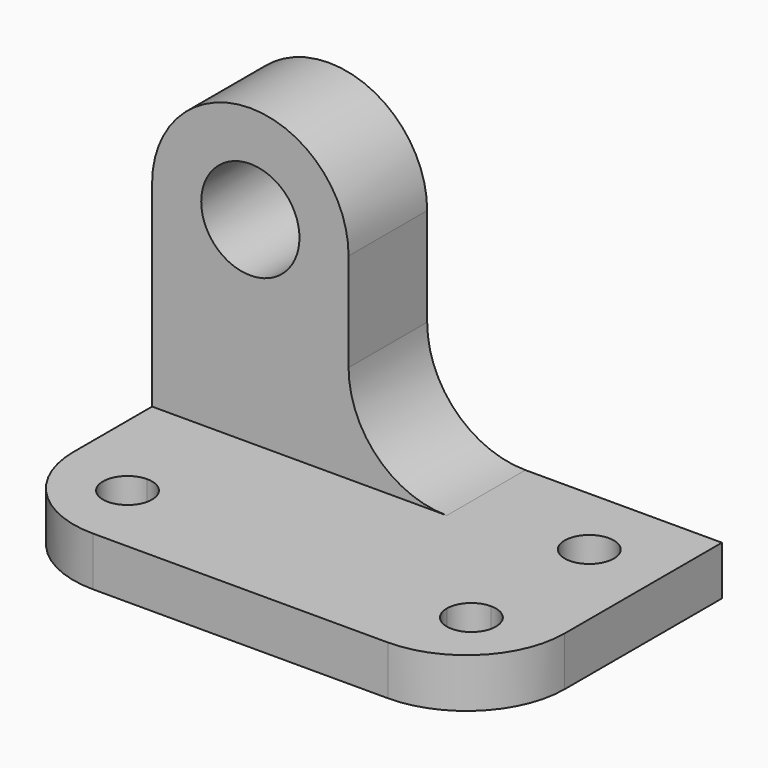
from build123d import *

# Parameters (mm, degrees)
F0_R     = 3.175
F1_DEPTH = 6.35
F0_W     = 25.4
F0_H     = 12.7
F2_DEPTH = 31.75
F4_DEPTH = 12.7
F5_DEPTH = 12.7
F6_DEPTH = 12.7
F7_DEPTH = 6.35


with BuildPart() as f1:
    # F0 (on Top) → F1 (new body)
    with BuildSketch(Plane.XY):
        Polygon((0, 25.4), (0, 12.7), (9.525, 12.7), (12.7, 12.7), (12.7, 9.525), (12.7, 0), (50.8, 0), (50.8, 9.525), (50.8, 12.7), (53.975, 12.7), (63.5, 12.7), (63.5, 38.1), (25.4, 38.1), (25.4, 25.4), align=None)
        with Locations((53.975, 28.575)):
            Circle(F0_R, mode=Mode.SUBTRACT)
        with BuildLine():
            Line((50.8, 9.525), (50.8, 0))
            ThreePointArc((50.8, 0), (59.7802561211, 3.7197438789), (63.5, 12.7))
            Line((63.5, 12.7), (53.975, 12.7))
            ThreePointArc((53.975, 12.7), (56.2200640303, 11.7700640303), (57.15, 9.525))
            ThreePointArc((57.15, 9.525), (53.975, 6.35), (50.8, 9.525))
        make_face()
        with BuildLine():
            Line((9.525, 12.7), (0, 12.7))
            ThreePointArc((0, 12.7), (3.7197438789, 3.7197438789), (12.7, 0))
            Line((12.7, 0), (12.7, 9.525))
            ThreePointArc((12.7, 9.525), (7.2799359697, 7.2799359697), (9.525, 12.7))
        make_face()
    extrude(amount=F1_DEPTH)

    # F0 (on Top) → F2 (join)
    with BuildSketch(Plane.XY):
        with Locations((12.7, 31.75)):
            Rectangle(F0_W, F0_H)
    extrude(amount=F2_DEPTH)

    # F3 (on face) → F4 (join)
    with BuildSketch(Plane.XZ.offset(-25.4)):
        with BuildLine():
            ThreePointArc((38.1, 6.35), (29.1197438789, 10.0697438789), (25.4, 19.05))
            Line((25.4, 19.05), (25.4, 6.35))
            Line((25.4, 6.35), (38.1, 6.35))
        make_face()
    extrude(amount=-F4_DEPTH)

    # F3 (on face) → F5 (cut)
    with BuildSketch(Plane.XZ.offset(-25.4)):
        with BuildLine():
            Line((6.35, 31.75), (19.05, 31.75))
            ThreePointArc((19.05, 31.75), (12.7, 38.1), (6.35, 31.75))
        make_face()
        with BuildLine():
            ThreePointArc((6.35, 31.75), (12.7, 25.4), (19.05, 31.75))
            Line((19.05, 31.75), (6.35, 31.75))
        make_face()
    extrude(amount=-F5_DEPTH, mode=Mode.SUBTRACT)

    # F3 (on face) → F6 (join)
    with BuildSketch(Plane.XZ.offset(-25.4)):
        with BuildLine():
            Line((19.05, 31.75), (25.4, 31.75))
            ThreePointArc((25.4, 31.75), (12.7, 44.45), (0, 31.75))
            Line((0, 31.75), (6.35, 31.75))
            ThreePointArc((6.35, 31.75), (12.7, 38.1), (19.05, 31.75))
        make_face()
    extrude(amount=-F6_DEPTH)

    # F0 (on Top) → F7 (join)
    with BuildSketch(Plane.XY):
        with BuildLine():
            Line((12.7, 12.7), (9.525, 12.7))
            ThreePointArc((9.525, 12.7), (11.7700640303, 11.7700640303), (12.7, 9.525))
            Line((12.7, 9.525), (12.7, 12.7))
        make_face()
        with BuildLine():
            Line((50.8, 12.7), (50.8, 9.525))
            ThreePointArc((50.8, 9.525), (51.7299359697, 11.7700640303), (53.975, 12.7))
            Line((53.975, 12.7), (50.8, 12.7))
        make_face()
    extrude(amount=F7_DEPTH)


solid = f1.part
